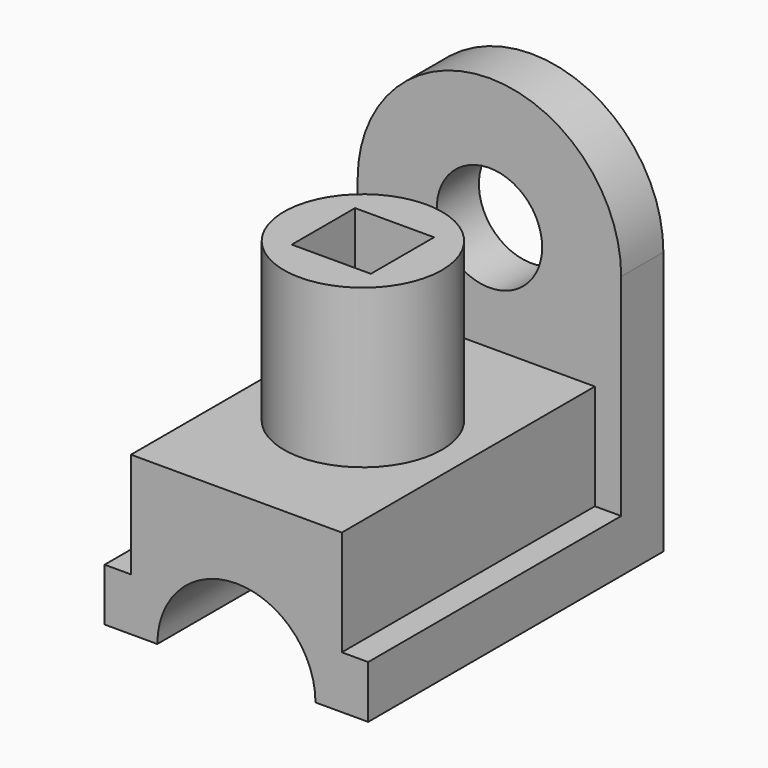
from build123d import *

# Parameters (mm, degrees)
F0_W     = 5
F0_H     = 10
F1_DEPTH = 60
F3_DEPTH = 10
F4_R     = 15
F5_DEPTH = 30
F6_W     = 15
F6_H     = 15
F7_DEPTH = 70


with BuildPart() as f1:
    # F0 (on Front) → F1 (new body)
    with BuildSketch(Plane.XZ):
        with Locations((-26.611573, 5)):
            Rectangle(F0_W, F0_H)
        with Locations((18.388427, 5)):
            Rectangle(F0_W, F0_H)
        with BuildLine():
            Line((10.888427, 0), (15.888427, 0))
            Line((15.888427, 0), (15.888427, 10))
            Line((15.888427, 10), (15.888427, 30))
            Line((15.888427, 30), (-24.111573, 30))
            Line((-24.111573, 30), (-24.111573, 10))
            Line((-24.111573, 10), (-24.111573, 0))
            Line((-24.111573, 0), (-19.111573, 0))
            ThreePointArc((-19.111573, 0), (-4.111573, 15), (10.888427, 0))
        make_face()
    extrude(amount=F1_DEPTH)

    # F2 (on face) → F3 (join)
    with BuildSketch(Plane(origin=(0, 0, 0), x_dir=(-1, 0, 0), z_dir=(0, 1, 0))):
        with BuildLine():
            Line((-20.888427, 10), (-20.888427, 0))
            Line((-20.888427, 0), (-10.888427, 0))
            ThreePointArc((-10.888427, 0), (4.111573, 15), (19.111573, 0))
            Line((19.111573, 0), (29.111573, 0))
            Line((29.111573, 0), (29.111573, 10))
            Line((29.111573, 10), (24.111573, 10))
            Line((24.111573, 10), (24.111573, 30))
            Line((24.111573, 30), (19.111573, 30))
            ThreePointArc((19.111573, 30), (4.111573, 25), (-10.888427, 30))
            Line((-10.888427, 30), (-15.888427, 30))
            Line((-15.888427, 30), (-15.888427, 10))
            Line((-15.888427, 10), (-20.888427, 10))
        make_face()
        with BuildLine():
            Line((-20.888427, 50), (-20.888427, 10))
            Line((-20.888427, 10), (-15.888427, 10))
            Line((-15.888427, 10), (-15.888427, 30))
            Line((-15.888427, 30), (-10.888427, 30))
            ThreePointArc((-10.888427, 30), (-18.249106, 38.81966), (-20.888427, 50))
        make_face()
        with BuildLine():
            Line((29.111573, 10), (29.111573, 50))
            ThreePointArc((29.111573, 50), (26.472253, 38.81966), (19.111573, 30))
            Line((19.111573, 30), (24.111573, 30))
            Line((24.111573, 30), (24.111573, 10))
            Line((24.111573, 10), (29.111573, 10))
        make_face()
        with BuildLine():
            Line((19.111573, 30), (-10.888427, 30))
            ThreePointArc((-10.888427, 30), (4.111573, 25), (19.111573, 30))
        make_face()
        with BuildLine():
            ThreePointArc((29.111573, 50), (4.111573, 75), (-20.888427, 50))
            Line((-20.888427, 50), (-5.888427, 50))
            ThreePointArc((-5.888427, 50), (4.111573, 60), (14.111573, 50))
            Line((14.111573, 50), (29.111573, 50))
        make_face()
        with BuildLine():
            Line((-5.888427, 50), (-20.888427, 50))
            ThreePointArc((-20.888427, 50), (-18.249106, 38.81966), (-10.888427, 30))
            Line((-10.888427, 30), (19.111573, 30))
            ThreePointArc((19.111573, 30), (26.472253, 38.81966), (29.111573, 50))
            Line((29.111573, 50), (14.111573, 50))
            ThreePointArc((14.111573, 50), (4.111573, 40), (-5.888427, 50))
        make_face()
    extrude(amount=F3_DEPTH)

    # F4 (on face) → F5 (join)
    with BuildSketch(Plane.XY.offset(30)):
        with Locations((-4.111573, -30)):
            Circle(F4_R)
    extrude(amount=F5_DEPTH)

    # F6 (on face) → F7 (cut)
    with BuildSketch(Plane.XY.offset(60)):
        with Locations((-4.111573, -30)):
            Rectangle(F6_W, F6_H)
    extrude(amount=-F7_DEPTH, mode=Mode.SUBTRACT)


solid = f1.part
